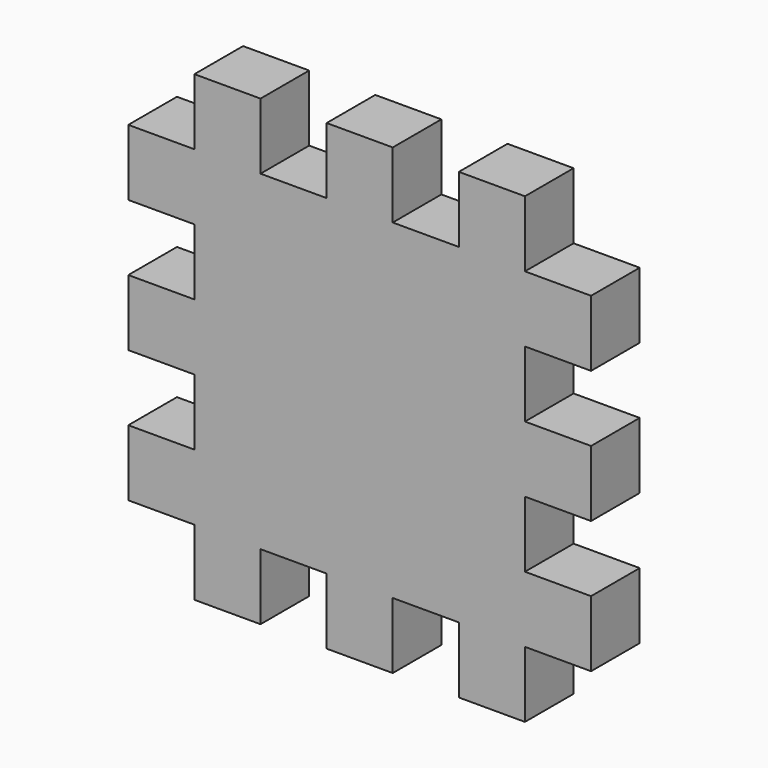
from build123d import *

# Parameters (mm, degrees)
F1_DEPTH = 15.24


with BuildPart() as f1:
    # F0 (on Front) → F1 (new body)
    with BuildSketch(Plane.XZ):
        Polygon((-42.054426, 75.917969), (-58.619134, 75.917969), (-58.619134, 59.35326), (-75.183842, 59.35326), (-75.183842, 42.788552), (-58.619134, 42.788552), (-58.619134, 26.223844), (-75.183842, 26.223844), (-75.183842, 9.659136), (-58.619134, 9.659136), (-58.619134, -6.905572), (-75.183842, -6.905572), (-75.183842, -23.470281), (-58.619134, -23.470281), (-58.619134, -40.034989), (-42.054426, -40.034989), (-42.054426, -23.470281), (-25.489718, -23.470281), (-25.489718, -40.034989), (-8.92501, -40.034989), (-8.92501, -23.470281), (7.639699, -23.470281), (7.639699, -40.034989), (24.204407, -40.034989), (24.204407, -23.470281), (40.769115, -23.470281), (40.769115, -6.905572), (24.204407, -6.905572), (24.204407, 9.659136), (40.769115, 9.659136), (40.769115, 26.223844), (24.204407, 26.223844), (24.204407, 42.788552), (40.769115, 42.788552), (40.769115, 59.35326), (24.204407, 59.35326), (24.204407, 75.917969), (7.639699, 75.917969), (7.639699, 59.35326), (-8.92501, 59.35326), (-8.92501, 75.917969), (-25.489718, 75.917969), (-25.489718, 59.35326), (-42.054426, 59.35326), align=None)
    extrude(amount=F1_DEPTH)


solid = f1.part
